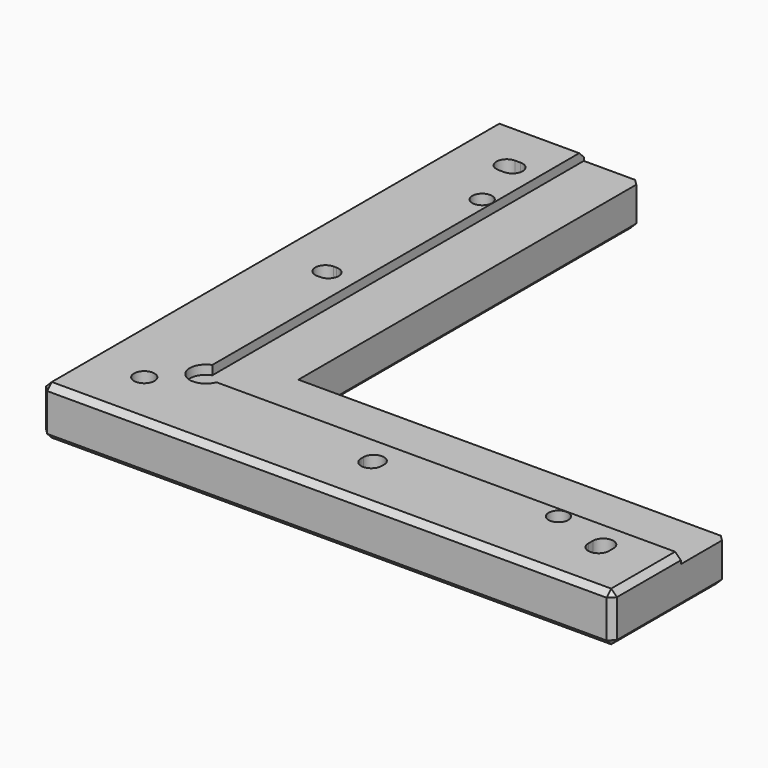
from build123d import *

# Parameters (mm, degrees)
PAD_DEPTH       = 8.6
SKETCH001_R     = 1.8
SKETCH001_R_2   = 1.73
POCKET_DEPTH    = 8.601
POCKET001_DEPTH = 1.6
POCKET002_DEPTH = 5
CHAMFER_SIZE    = 1


with BuildPart() as part:
    # Sketch → Pad (new body)
    with BuildSketch(Plane.XY):
        Polygon((0, 0), (0, 100), (25, 100), (25, 25), (100, 25), (100, 0), align=None)
    extrude(amount=PAD_DEPTH)

    # Sketch001 → Pocket (cut, through all)
    with BuildSketch(Plane.XY.offset(8.6)):
        with Locations((10, 10)):
            Circle(SKETCH001_R)
        with Locations((80, 13.2)):
            Circle(SKETCH001_R_2)
        with Locations((13.2, 80)):
            Circle(SKETCH001_R_2)
        with BuildLine():
            ThreePointArc((9.75, 51.8), (7.95, 50), (9.75, 48.2))
            Line((9.75, 48.2), (10.25, 48.2))
            ThreePointArc((10.25, 48.2), (12.05, 50), (10.25, 51.8))
            Line((9.75, 51.8), (10.25, 51.8))
        make_face()
        with BuildLine():
            ThreePointArc((9.5, 91.8), (7.7, 90), (9.5, 88.2))
            Line((9.5, 88.2), (10.5, 88.2))
            ThreePointArc((10.5, 88.2), (12.3, 90), (10.5, 91.8))
            Line((9.5, 91.8), (10.5, 91.8))
        make_face()
        with BuildLine():
            ThreePointArc((51.8, 10.25), (50, 12.05), (48.2, 10.25))
            Line((48.2, 10.25), (48.2, 9.75))
            ThreePointArc((48.2, 9.75), (50, 7.95), (51.8, 9.75))
            Line((51.8, 10.25), (51.8, 9.75))
        make_face()
        with BuildLine():
            ThreePointArc((91.8, 10.5), (90, 12.3), (88.2, 10.5))
            Line((88.2, 10.5), (88.2, 9.5))
            ThreePointArc((88.2, 9.5), (90, 7.7), (91.8, 9.5))
            Line((91.8, 10.5), (91.8, 9.5))
        make_face()
    extrude(amount=-POCKET_DEPTH, mode=Mode.SUBTRACT)

    # Sketch002 → Pocket001 (cut)
    with BuildSketch(Plane.XY.offset(8.6)):
        with BuildLine():
            Line((15, 110), (110, 110))
            Line((110, 110), (110, 15))
            Line((110, 15), (18.645751, 15))
            ThreePointArc((15, 18.645751), (14, 14), (18.645751, 15))
            Line((15, 18.645751), (15, 110))
        make_face()
    extrude(amount=-POCKET001_DEPTH, mode=Mode.SUBTRACT)

    # Sketch003 → Pocket002 (cut)
    with BuildSketch(Plane(origin=(0, 0, 0), x_dir=(1, 0, 0), z_dir=(0, 0, -1))):
        Polygon((81.80356, -15.813523), (83.165158, -12.944833), (81.361598, -10.331309), (78.19644, -10.586477), (76.834842, -13.455167), (78.638402, -16.068691), align=None)
        Polygon((16.374919, -80.056763), (14.836618, -77.278821), (11.661699, -77.222058), (10.025081, -79.943237), (11.563382, -82.721179), (14.738301, -82.777942), align=None)
    extrude(amount=-POCKET002_DEPTH, mode=Mode.SUBTRACT)

    # Chamfer
    chamfer_edges = [part.edges().sort_by_distance(p)[0] for p in [
        (50, 0, 8.6),
        (0, 50, 8.6),
        (50, 0, 0),
        (0, 0, 4.3),
        (100, 0, 4.3),
        (100, 7.5, 8.6),
        (100, 12.5, 0),
        (100, 25, 3.5),
        (25, 100, 3.5),
        (7.5, 100, 8.6),
        (0, 50, 0),
        (12.5, 100, 0),
        (25, 62.5, 0),
        (62.5, 25, 0),
        (0, 100, 4.3),
    ]]
    chamfer(chamfer_edges, length=CHAMFER_SIZE)


solid = part.part
